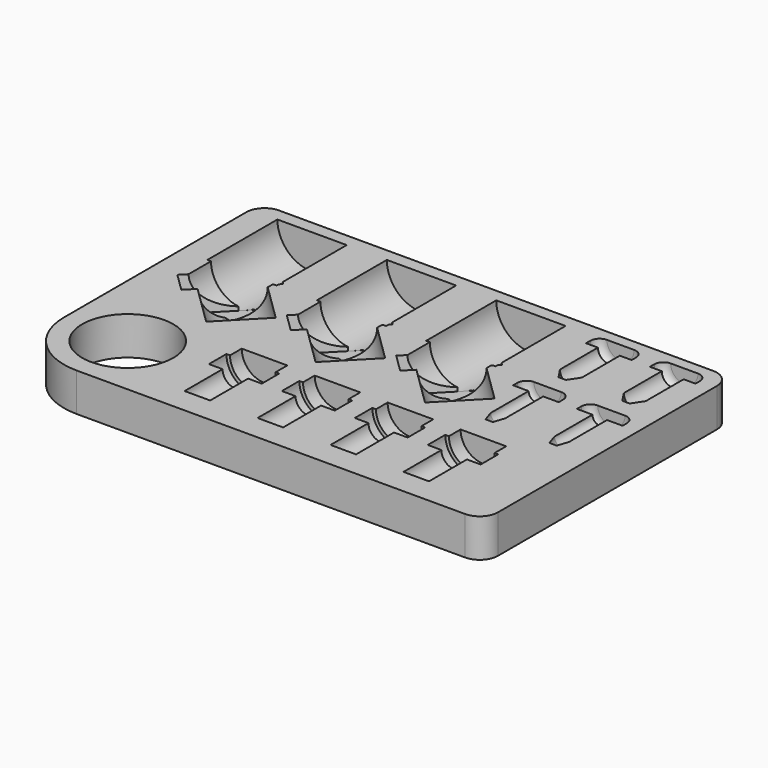
from build123d import *

# Parameters (mm, degrees)
F0_R      = 12.5
F1_DEPTH  = 10.5
F10_START = -9.5
F9_R      = 12.5
F10_DEPTH = 1


with BuildPart() as f1:
    # F0 (on Top) → F1 (new body)
    with BuildSketch(Plane.XY):
        with BuildLine():
            ThreePointArc((0, 17.5), (5.1256313292, 5.1256313292), (17.5, 0))
            Line((17.5, 0), (124, 0))
            ThreePointArc((124, 0), (127.5355339059, 1.4644660941), (129, 5))
            Line((129, 5), (129, 80))
            ThreePointArc((129, 80), (127.5355339059, 83.5355339059), (124, 85))
            Line((124, 85), (5, 85))
            ThreePointArc((5, 85), (1.4644660941, 83.5355339059), (0, 80))
            Line((0, 80), (0, 17.5))
        make_face()
        with Locations((17.5, 17.5)):
            Circle(F0_R, mode=Mode.SUBTRACT)
    extrude(amount=F1_DEPTH)

    # F2 (on face) → F3 (revolve, cut)
    with BuildSketch(Plane.XY.offset(10.5)):
        Polygon((14.3187418757, 55.9630800428), (16.818928037, 53.5137803146), (16.818928037, 81.5137803146), (7.318928037, 81.5137803146), (7.318928037, 57.5137803146), (8.318928037, 57.5137803146), (8.318928037, 53.1566108629), (8.318928037, 49.8386146061), align=None)
        Polygon((8.318928037, 49.5137803146), (16.818928037, 53.5137803146), (14.3187418757, 55.9630800428), (8.318928037, 49.8386146061), align=None)
    revolve(axis=Axis((16.818928037, 67.5137803146, 10.5), (0, 1, 0)), mode=Mode.SUBTRACT)

    # F2 (on face) → F4 (revolve, cut)
    with BuildSketch(Plane.XY.offset(10.5)):
        Polygon((44.3187418757, 55.9630800428), (46.818928037, 53.5137803146), (46.818928037, 81.5137803146), (37.318928037, 81.5137803146), (37.318928037, 57.5137803146), (38.318928037, 57.5137803146), (38.318928037, 49.8386146061), align=None)
    revolve(axis=Axis((46.818928037, 67.5137803146, 10.5), (0, 1, 0)), mode=Mode.SUBTRACT)

    # F2 (on face) → F5 (revolve, cut)
    with BuildSketch(Plane.XY.offset(10.5)):
        Polygon((74.3187418757, 55.9630800428), (76.818928037, 53.5137803146), (76.818928037, 81.5137803146), (67.318928037, 81.5137803146), (67.318928037, 57.5137803146), (68.318928037, 57.5137803146), (68.318928037, 49.8386146061), align=None)
    revolve(axis=Axis((76.818928037, 67.5137803146, 10.5), (0, 1, 0)), mode=Mode.SUBTRACT)

    # F2 (on face) → F6 (revolve, cut)
    with BuildSketch(Plane.XY.offset(10.5)):
        Polygon((14.0706147806, 45.7069388121), (25, 35), (30.2484994177, 40.3575417742), (16.818928037, 53.5137803146), (8.318928037, 49.5137803146), (8.318928037, 49.8386146061), (6.6209427297, 48.1053521073), (11.6213150523, 43.2067526508), align=None)
        Polygon((8.318928037, 49.5137803146), (16.818928037, 53.5137803146), (14.3187418757, 55.9630800428), (8.318928037, 49.8386146061), align=None)
    revolve(axis=Axis((22.2836206467, 48.1603109085, 10.5), (0.7143389032, -0.6997999224, 0)), mode=Mode.SUBTRACT)

    # F2 (on face) → F7 (revolve, cut)
    with BuildSketch(Plane.XY.offset(10.5)):
        Polygon((60.2484994177, 40.3575417742), (46.818928037, 53.5137803146), (38.318928037, 49.5137803146), (38.318928037, 49.8386146061), (36.6209427297, 48.1053521073), (41.6213150523, 43.2067526508), (44.0706147806, 45.7069388121), (55, 35), align=None)
        Polygon((38.318928037, 49.5137803146), (46.818928037, 53.5137803146), (44.3187418757, 55.9630800428), (38.318928037, 49.8386146061), align=None)
    revolve(axis=Axis((53.5337137273, 46.9356610444, 10.5), (0.7143389032, -0.6997999224, 0)), mode=Mode.SUBTRACT)

    # F2 (on face) → F8 (revolve, cut)
    with BuildSketch(Plane.XY.offset(10.5)):
        Polygon((90.2484994177, 40.3575417742), (76.818928037, 53.5137803146), (68.318928037, 49.5137803146), (68.318928037, 49.8386146061), (66.6209427297, 48.1053521073), (71.6213150523, 43.2067526508), (74.0706147806, 45.7069388121), (85, 35), align=None)
        Polygon((68.318928037, 49.5137803146), (76.818928037, 53.5137803146), (74.3187418757, 55.9630800428), (68.318928037, 49.8386146061), align=None)
    revolve(axis=Axis((83.5337137273, 46.9356610444, 10.5), (0.7143389032, -0.6997999224, 0)), mode=Mode.SUBTRACT)

    # F9 (on face) → F10 (join)
    with BuildSketch(Plane.XY.offset(10.5).offset(F10_START)):
        with BuildLine():
            ThreePointArc((129, 80), (127.5355339059, 83.5355339059), (124, 85))
            Line((124, 85), (5, 85))
            ThreePointArc((5, 85), (1.4644660941, 83.5355339059), (0, 80))
            Line((0, 80), (0, 17.5))
            ThreePointArc((0, 17.5), (5.1256313292, 5.1256313292), (17.5, 0))
            Line((17.5, 0), (124, 0))
            ThreePointArc((124, 0), (127.5355339059, 1.4644660941), (129, 5))
            Line((129, 5), (129, 80))
        make_face()
        with Locations((17.5, 17.5)):
            Circle(F9_R, mode=Mode.SUBTRACT)
    extrude(amount=-F10_DEPTH)

    # F11 (on face) → F12 (revolve, cut)
    with BuildSketch(Plane.XY.offset(10.5)):
        with BuildLine():
            Line((104.75, 82), (101, 82))
            Line((101, 82), (101, 78))
            Line((101, 78), (101, 72))
            Line((101, 72), (101, 62))
            Line((101, 62), (102, 62))
            Line((102, 62), (104, 65))
            Line((104, 65), (104, 78))
            Line((104, 78), (107.25, 78))
            Line((107.25, 78), (107.25, 79.5))
            ThreePointArc((107.25, 79.5), (106.517766953, 81.267766953), (104.75, 82))
        make_face()
        with BuildLine():
            Line((104.75, 57), (101, 57))
            Line((101, 57), (101, 53))
            Line((101, 53), (101, 37))
            Line((101, 37), (102, 37))
            Line((102, 37), (103, 40))
            Line((103, 40), (103, 53))
            Line((103, 53), (107.25, 53))
            Line((107.25, 53), (107.25, 54.5))
            ThreePointArc((107.25, 54.5), (106.517766953, 56.267766953), (104.75, 57))
        make_face()
    revolve(axis=Axis((101, 45, 10.5), (0, -1, 0)), mode=Mode.SUBTRACT)

    # F11 (on face) → F13 (revolve, cut)
    with BuildSketch(Plane.XY.offset(10.5)):
        Polygon((121.5, 78), (118.5, 78), (118.5, 62), (119.5, 62), (121.5, 65), align=None)
        with BuildLine():
            Line((122.25, 82), (118.5, 82))
            Line((118.5, 82), (118.5, 78))
            Line((118.5, 78), (121.5, 78))
            Line((121.5, 78), (124.75, 78))
            Line((124.75, 78), (124.75, 79.5))
            ThreePointArc((124.75, 79.5), (124.017766953, 81.267766953), (122.25, 82))
        make_face()
        with BuildLine():
            Line((122.25, 57), (118.5, 57))
            Line((118.5, 57), (118.5, 53))
            Line((118.5, 53), (118.5, 37))
            Line((118.5, 37), (119.5, 37))
            Line((119.5, 37), (120.5, 40))
            Line((120.5, 40), (120.5, 53))
            Line((120.5, 53), (124.75, 53))
            Line((124.75, 53), (124.75, 54.5))
            ThreePointArc((124.75, 54.5), (124.017766953, 56.267766953), (122.25, 57))
        make_face()
    revolve(axis=Axis((118.5, 45, 10.5), (0, -1, 0)), mode=Mode.SUBTRACT)

    # F14 (on face) → F15 (revolve, cut)
    with BuildSketch(Plane.XY.offset(10.5)):
        Polygon((51.25, 30), (45, 30), (45, 26), (45, 20), (45, 17.5), (45, 7), (48.5, 7), (48.5, 20), (52.25, 20), (52.25, 26), (51.25, 26), align=None)
    revolve(axis=Axis((45, 13.5, 10.5), (0, -1, 0)), mode=Mode.SUBTRACT)

    # F14 (on face) → F16 (revolve, cut)
    with BuildSketch(Plane.XY.offset(10.5)):
        Polygon((71.25, 30), (65, 30), (65, 26), (65, 20), (65, 7), (68.5, 7), (68.5, 20), (72.25, 20), (72.25, 26), (71.25, 26), align=None)
    revolve(axis=Axis((65, 13.5, 10.5), (0, -1, 0)), mode=Mode.SUBTRACT)

    # F14 (on face) → F17 (revolve, cut)
    with BuildSketch(Plane.XY.offset(10.5)):
        Polygon((91.25, 30), (85, 30), (85, 26), (85, 20), (85, 7), (88.5, 7), (88.5, 20), (92.25, 20), (92.25, 26), (91.25, 26), align=None)
    revolve(axis=Axis((85, 13.5, 10.5), (0, -1, 0)), mode=Mode.SUBTRACT)

    # F14 (on face) → F18 (revolve, cut)
    with BuildSketch(Plane.XY.offset(10.5)):
        Polygon((111.25, 30), (105, 30), (105, 26), (105, 20), (105, 7), (108.5, 7), (108.5, 20), (112.25, 20), (112.25, 26), (111.25, 26), align=None)
    revolve(axis=Axis((105, 13.5, 10.5), (0, -1, 0)), mode=Mode.SUBTRACT)


solid = f1.part
